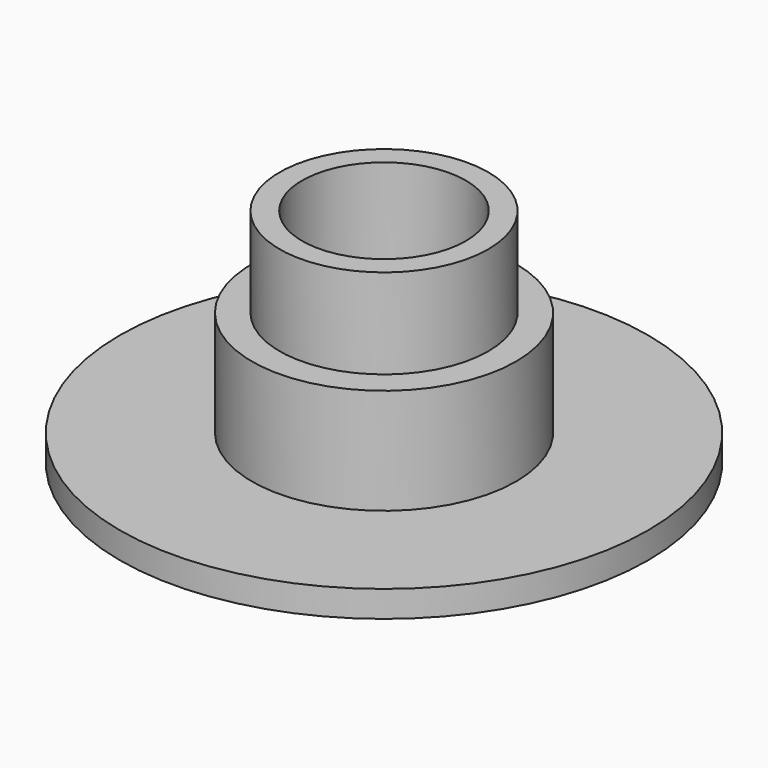
from build123d import *

# Parameters (mm, degrees)
F0_R     = 3.95
F0_R_2   = 3.1
F1_DEPTH = 8.4
F0_R_3   = 5
F2_DEPTH = 5
F0_R_4   = 10
F3_DEPTH = 1


with BuildPart() as f1:
    # F0 (on Top) → F1 (new body)
    with BuildSketch(Plane.XY):
        Circle(F0_R)
        Circle(F0_R_2, mode=Mode.SUBTRACT)
    extrude(amount=F1_DEPTH)

    # F0 (on Top) → F2 (join)
    with BuildSketch(Plane.XY):
        Circle(F0_R_3)
        Circle(F0_R, mode=Mode.SUBTRACT)
    extrude(amount=F2_DEPTH)

    # F0 (on Top) → F3 (join)
    with BuildSketch(Plane.XY):
        Circle(F0_R_4)
        Circle(F0_R_3, mode=Mode.SUBTRACT)
    extrude(amount=F3_DEPTH)


solid = f1.part
